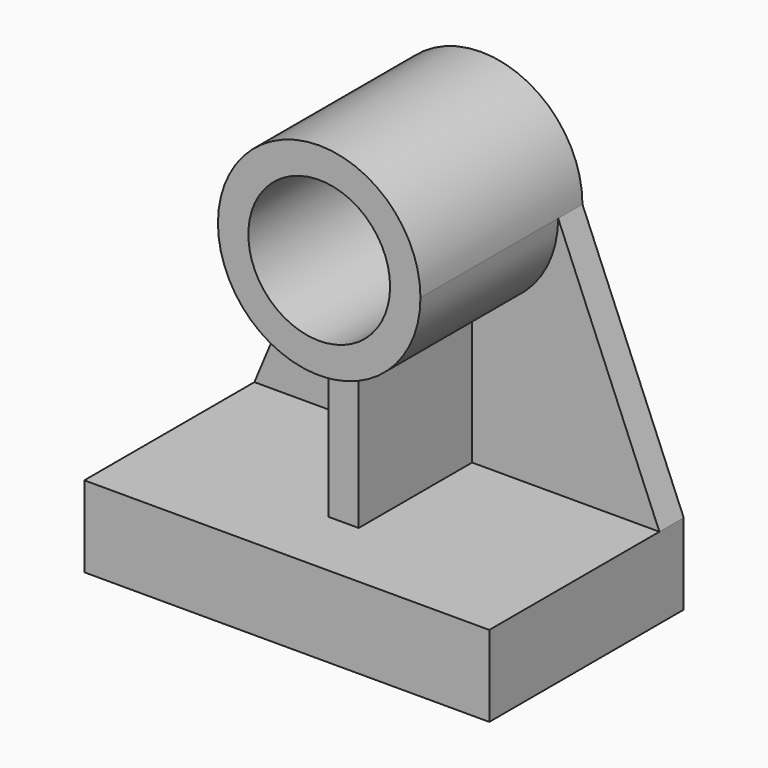
from build123d import *

# Parameters (mm, degrees)
F1_DEPTH = 152.4
F2_DEPTH = 107.95
F0_R     = 44.45
F3_DEPTH = 127
F4_DEPTH = 19.05


with BuildPart() as f1:
    # F0 (on Front) → F1 (new body)
    with BuildSketch(Plane.XZ):
        Polygon((127, -203.2), (127, -152.4), (9.525, -152.4), (-9.525, -152.4), (-127, -152.4), (-127, -203.2), align=None)
    extrude(amount=F1_DEPTH)

    # F0 (on Front) → F2 (join)
    with BuildSketch(Plane.XZ):
        with BuildLine():
            Line((9.525, -152.4), (9.525, -62.781561))
            ThreePointArc((9.525, -62.781561), (0, -63.5), (-9.525, -62.781561))
            Line((-9.525, -62.781561), (-9.525, -152.4))
            Line((-9.525, -152.4), (9.525, -152.4))
        make_face()
    extrude(amount=F2_DEPTH)

    # F0 (on Front) → F3 (join)
    with BuildSketch(Plane.XZ):
        with BuildLine():
            ThreePointArc((9.525, -62.781561), (48.151259, -41.396935), (63.5, 0))
            ThreePointArc((63.5, 0), (0, 63.5), (-63.5, 0))
            ThreePointArc((-63.5, 0), (-48.151259, -41.396935), (-9.525, -62.781561))
            ThreePointArc((-9.525, -62.781561), (0, -63.5), (9.525, -62.781561))
        make_face()
        Circle(F0_R, mode=Mode.SUBTRACT)
    extrude(amount=F3_DEPTH)

    # F0 (on Front) → F4 (join)
    with BuildSketch(Plane.XZ):
        with BuildLine():
            ThreePointArc((-9.525, -62.781561), (-48.151259, -41.396935), (-63.5, 0))
            Line((-63.5, 0), (-127, -152.4))
            Line((-127, -152.4), (-9.525, -152.4))
            Line((-9.525, -152.4), (-9.525, -62.781561))
        make_face()
        with BuildLine():
            Line((127, -152.4), (63.5, 0))
            ThreePointArc((63.5, 0), (48.151259, -41.396935), (9.525, -62.781561))
            Line((9.525, -62.781561), (9.525, -152.4))
            Line((9.525, -152.4), (127, -152.4))
        make_face()
    extrude(amount=F4_DEPTH)


solid = f1.part
